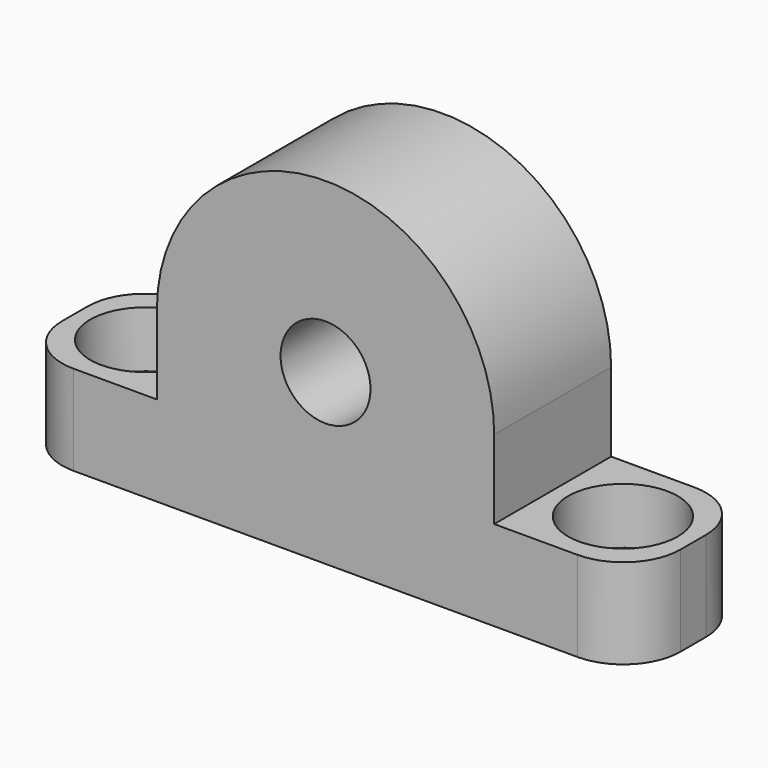
from build123d import *

# Parameters (mm, degrees)
F0_R           = 4
F1_DEPTH       = 13
F3_D           = 5.5
F3_CBORE_D     = 9.75
F3_CBORE_DEPTH = 5
F4_R           = 5.08


with BuildPart() as f1:
    # F0 (on Front) → F1 (new body)
    with BuildSketch(Plane.XZ):
        with BuildLine():
            Line((-27.5, 8), (-27.5, 0))
            Line((-27.5, 0), (27.5, 0))
            Line((27.5, 0), (27.5, 8))
            Line((27.5, 8), (15, 8))
            Line((15, 8), (15, 15))
            ThreePointArc((15, 15), (0, 30), (-15, 15))
            Line((-15, 15), (-15, 8))
            Line((-15, 8), (-27.5, 8))
        make_face()
        with Locations((0, 15)):
            Circle(F0_R, mode=Mode.SUBTRACT)
    extrude(amount=F1_DEPTH)

    # F3 (through all)
    with Locations(Plane.XY.offset(8)):
        with Locations((-21.25, -6.5), (21.25, -6.5)):
            CounterBoreHole(F3_D / 2, F3_CBORE_D / 2, F3_CBORE_DEPTH)

    # F4
    f4_edges = [f1.edges().sort_by_distance(p)[0] for p in [
        (27.5, -13, 4),
        (27.5, 0, 4),
        (-27.5, -13, 4),
        (-27.5, 0, 4),
    ]]
    fillet(f4_edges, radius=F4_R)


solid = f1.part
